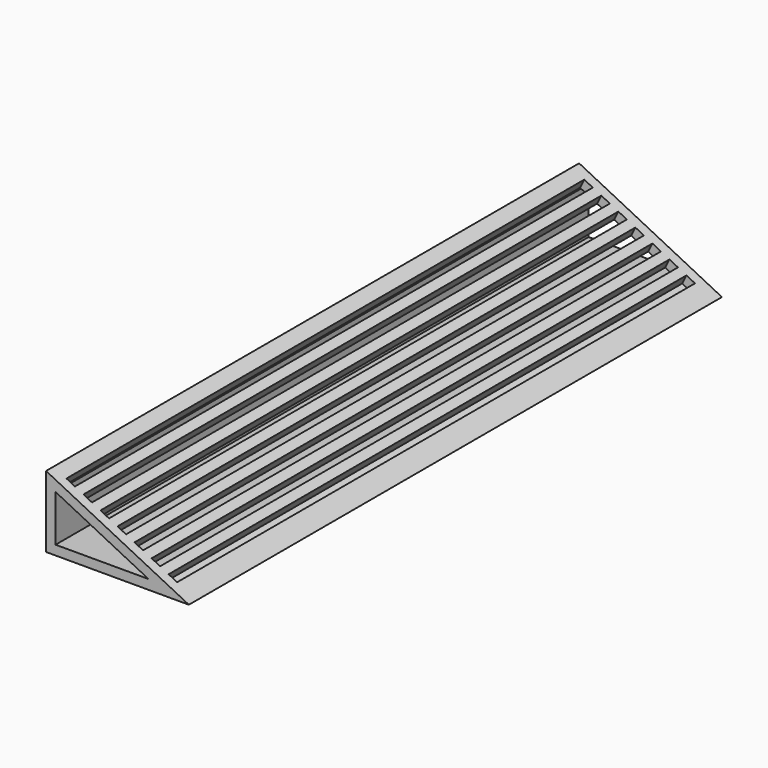
from build123d import *

# Parameters (mm, degrees)
F1_DEPTH = 1400
F2_W     = 20
F2_H     = 1360
F3_DEPTH = 20


with BuildPart() as f1:
    # F0 (on Front) → F1 (new body)
    with BuildSketch(Plane.XZ):
        Polygon((0, 150), (0, 0), (300, 0), align=None)
        Polygon((215.27864045, 20), (20, 20), (20, 117.639320225), align=None, mode=Mode.SUBTRACT)
    extrude(amount=F1_DEPTH)

    # F2 (on face) → F3 (cut, through all)
    with BuildSketch(Plane(origin=(60, 0, 120), x_dir=(0.894427191, 0, -0.4472135955), z_dir=(0.4472135955, 0, 0.894427191))):
        with Locations((-27.082039325, -700)):
            Rectangle(F2_W, F2_H)
        with Locations((12.917960675, -700)):
            Rectangle(F2_W, F2_H)
        with Locations((52.917960675, -700)):
            Rectangle(F2_W, F2_H)
        with Locations((92.917960675, -700)):
            Rectangle(F2_W, F2_H)
        with Locations((132.917960675, -700)):
            Rectangle(F2_W, F2_H)
        with Locations((172.917960675, -700)):
            Rectangle(F2_W, F2_H)
        with Locations((212.917960675, -700)):
            Rectangle(F2_W, F2_H)
    extrude(amount=-F3_DEPTH, mode=Mode.SUBTRACT)


solid = f1.part
